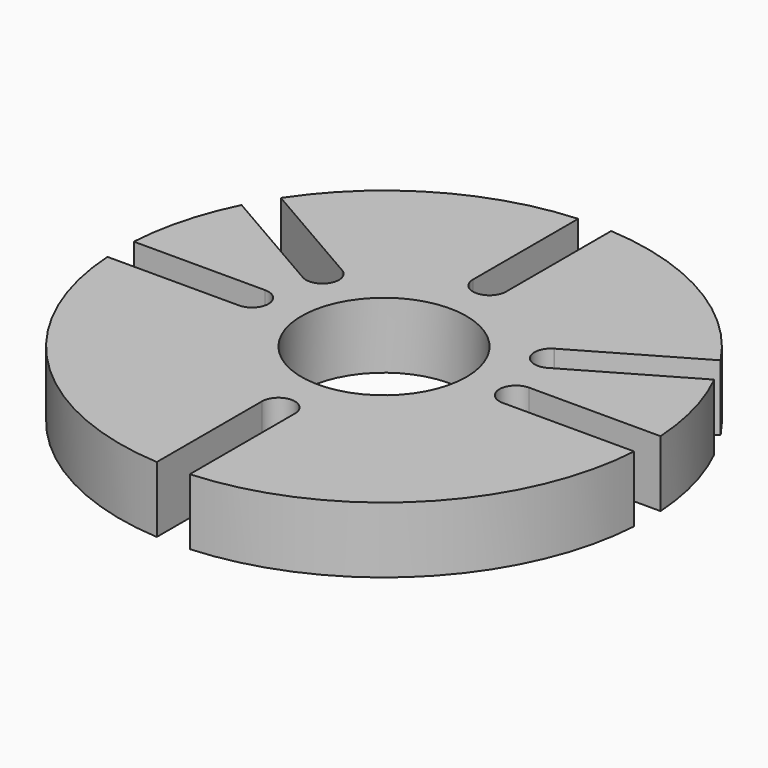
from build123d import *

# Parameters (mm, degrees)
F0_R     = 31.75
F1_DEPTH = 25.4


with BuildPart() as f1:
    # F0 (on Top) → F1 (new body)
    with BuildSketch(Plane.XY):
        with BuildLine():
            Line((50.8, 6.35), (101.401368, 6.35))
            ThreePointArc((101.401368, 6.35), (98.137932, 26.296508), (90.990707, 45.202336))
            Line((90.990707, 45.202336), (47.267053, 19.958473))
            ThreePointArc((47.267053, 19.958473), (38.552563, 22.127038), (40.721129, 30.841527))
            ThreePointArc((40.721129, 30.841527), (40.819091, 30.899261), (40.918071, 30.955232))
            Line((40.918071, 30.955232), (84.641725, 56.199096))
            ThreePointArc((84.641725, 56.199096), (50.800442, 87.987926), (6.35, 101.401368))
            Line((6.35, 101.401368), (6.35, 50.8))
            ThreePointArc((6.35, 50.8), (0, 44.45), (-6.35, 50.8))
            Line((-6.35, 50.8), (-6.35, 101.401368))
            ThreePointArc((-6.35, 101.401368), (-50.800442, 87.987926), (-84.641725, 56.199096))
            Line((-84.641725, 56.199096), (-40.918071, 30.955232))
            ThreePointArc((-40.918071, 30.955232), (-38.523477, 28.62411), (-37.644091, 25.4))
            ThreePointArc((-37.644091, 25.4), (-40.76998, 19.929386), (-47.07011, 19.844768))
            ThreePointArc((-47.07011, 19.844768), (-47.169091, 19.900739), (-47.267053, 19.958473))
            Line((-47.267053, 19.958473), (-90.990707, 45.202336))
            ThreePointArc((-90.990707, 45.202336), (-98.137932, 26.296508), (-101.401368, 6.35))
            Line((-101.401368, 6.35), (-50.8, 6.35))
            ThreePointArc((-50.8, 6.35), (-46.309872, 4.490128), (-44.45, 0))
            ThreePointArc((-44.45, 0), (-46.309872, -4.490128), (-50.8, -6.35))
            Line((-50.8, -6.35), (-101.401368, -6.35))
            ThreePointArc((-101.401368, -6.35), (-71.842049, -71.842049), (-6.35, -101.401368))
            Line((-6.35, -101.401368), (-6.35, -50.8))
            ThreePointArc((-6.35, -50.8), (0, -44.45), (6.35, -50.8))
            Line((6.35, -50.8), (6.35, -101.401368))
            ThreePointArc((6.35, -101.401368), (71.842049, -71.842049), (101.401368, -6.35))
            Line((101.401368, -6.35), (50.8, -6.35))
            ThreePointArc((50.8, -6.35), (44.45, 0), (50.8, 6.35))
        make_face()
        Circle(F0_R, mode=Mode.SUBTRACT)
    extrude(amount=F1_DEPTH)


solid = f1.part
